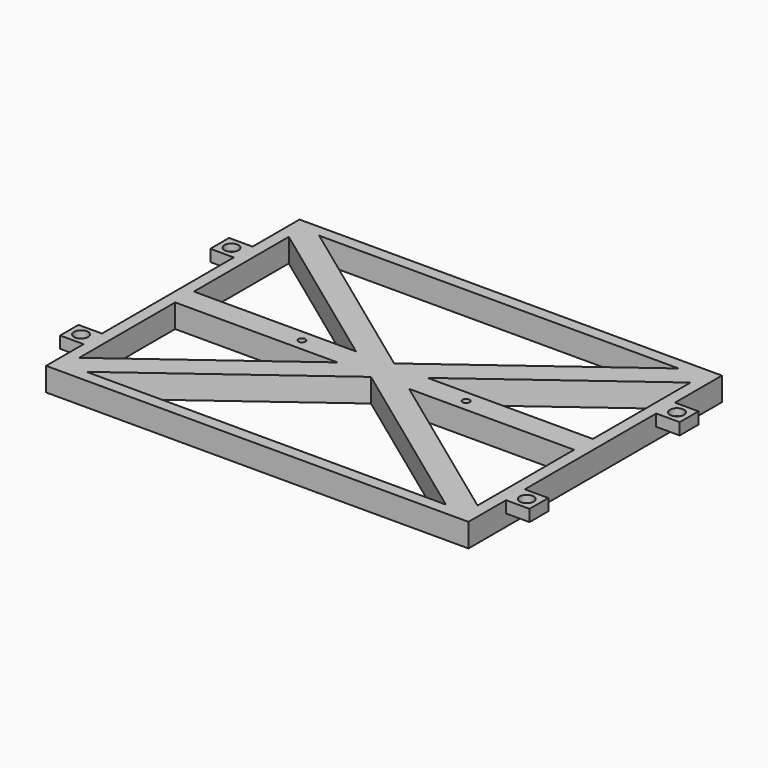
from build123d import *

# Parameters (mm, degrees)
PAD002_DEPTH    = 10
SKETCH005_R     = 1.5
SKETCH005_W     = 170
SKETCH005_H     = 57.5
POCKET002_DEPTH = 11
PAD003_DEPTH    = 10
PAD004_DEPTH    = 10
POCKET003_DEPTH = 3
SKETCH009_W     = 103.713421
SKETCH009_H     = 5
POCKET004_DEPTH = 10
SKETCH010_W     = 109.037471
SKETCH010_H     = 5
POCKET005_DEPTH = 10
SKETCH011_R     = 1.5
POCKET006_DEPTH = 5
SKETCH012_R     = 3
POCKET007_DEPTH = 3


with BuildPart() as part:
    # Sketch004 → Pad002 (new body)
    with BuildSketch(Plane.XY.offset(-30)):
        Polygon((10, -50), (0, -50), (0, -40), (10, -40), (10, -15), (190, -15), (190, -40), (200, -40), (200, -50), (190, -50), (190, -120), (200, -120), (200, -130), (190, -130), (190, -150), (10, -150), (10, -130.022141), (0, -130.022141), (0, -120.229309), (10, -120.229309), align=None)
    extrude(amount=PAD002_DEPTH)

    # Sketch005 → Pocket002 (cut)
    with BuildSketch(Plane.XY.offset(-20)):
        with Locations((65, -82.5)):
            Circle(SKETCH005_R)
        with Locations((135, -82.5)):
            Circle(SKETCH005_R)
        with Locations((100, -48.75)):
            Rectangle(SKETCH005_W, SKETCH005_H)
        with Locations((100, -116.25)):
            Rectangle(SKETCH005_W, SKETCH005_H)
    extrude(amount=-POCKET002_DEPTH, mode=Mode.SUBTRACT)

    # Sketch006 → Pad003 (new body)
    with BuildSketch(Plane.XY.offset(-20)):
        Polygon((15.544486, -15), (9.942795, -23.283783), (183.213308, -150), (189.107285, -141.92157), align=None)
    extrude(amount=-PAD003_DEPTH)

    # Sketch007 → Pad004 (new body)
    with BuildSketch(Plane.XY.offset(-20)):
        Polygon((16.445199, -150), (10.823256, -141.729948), (182.344322, -15), (188.253036, -23.067658), align=None)
    extrude(amount=-PAD004_DEPTH)

    # Sketch008 → Pocket003 (cut)
    with BuildSketch(Plane(origin=(0, 0, -30), x_dir=(1, 0, 0), z_dir=(0, 0, -1))):
        Polygon((66.72504, 85.516563), (63.260938, 85.516563), (61.528887, 82.516563), (63.260938, 79.516563), (66.72504, 79.516563), (68.457091, 82.516563), align=None)
        Polygon((136.743449, 85.423233), (133.279347, 85.423233), (131.547296, 82.423233), (133.279347, 79.423233), (136.743449, 79.423233), (138.4755, 82.423233), align=None)
    extrude(amount=-POCKET003_DEPTH, mode=Mode.SUBTRACT)

    # Sketch009 → Pocket004 (cut)
    with BuildSketch(Plane(origin=(0, 0, -30), x_dir=(0, -1, 0), z_dir=(-1, 0, 0))):
        with Locations((85.35563, 2.5)):
            Rectangle(SKETCH009_W, SKETCH009_H)
    extrude(amount=-POCKET004_DEPTH, mode=Mode.SUBTRACT)

    # Sketch010 → Pocket005 (cut)
    with BuildSketch(Plane(origin=(200, 0, -30), x_dir=(0, 1, 0), z_dir=(1, 0, 0))):
        with Locations((-86.823625, 2.5)):
            Rectangle(SKETCH010_W, SKETCH010_H)
    extrude(amount=-POCKET005_DEPTH, mode=Mode.SUBTRACT)

    # Sketch011 → Pocket006 (cut)
    with BuildSketch(Plane.XY.offset(-20)):
        with Locations((5.036074, -44.974274)):
            Circle(SKETCH011_R)
        with Locations((4.981705, -125.071396)):
            Circle(SKETCH011_R)
        with Locations((194.832825, -45.021729)):
            Circle(SKETCH011_R)
        with Locations((194.878098, -125.009697)):
            Circle(SKETCH011_R)
    extrude(amount=-POCKET006_DEPTH, mode=Mode.SUBTRACT)

    # Sketch012 → Pocket007 (cut)
    with BuildSketch(Plane.XY.offset(-20)):
        with Locations((5.016462, -44.97184)):
            Circle(SKETCH012_R)
        with Locations((4.972344, -125.06855)):
            Circle(SKETCH012_R)
        with Locations((194.878128, -125.061401)):
            Circle(SKETCH012_R)
        with Locations((194.862854, -45.015846)):
            Circle(SKETCH012_R)
    extrude(amount=-POCKET007_DEPTH, mode=Mode.SUBTRACT)


solid = part.part
